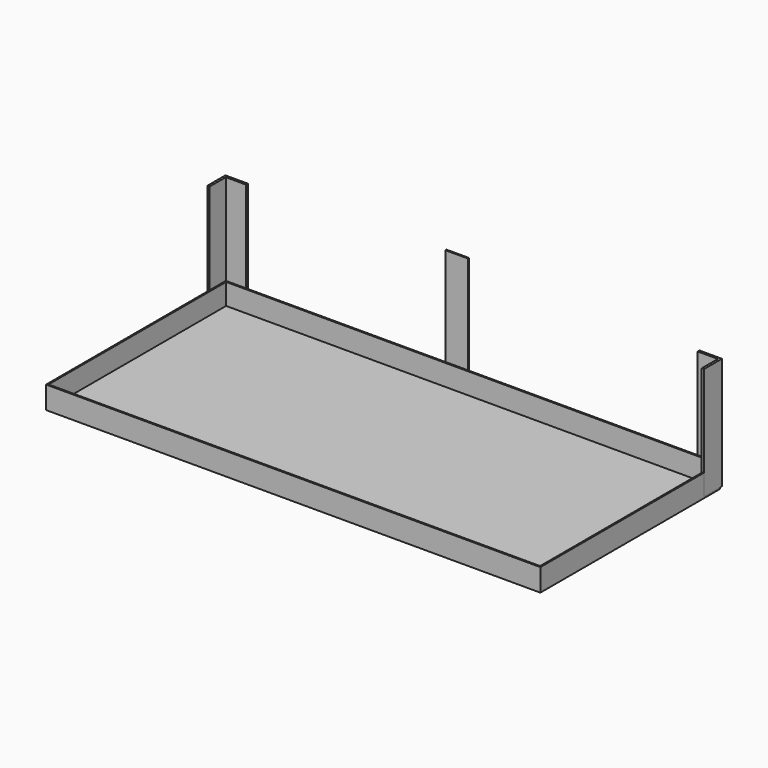
from build123d import *

# Parameters (mm, degrees)
F0_W     = 1100
F0_H     = 500
F1_DEPTH = 50
F2_T     = -3
F4_DEPTH = 250
F8_W     = 50
F8_H     = 3
F9_DEPTH = 250


with BuildPart() as f1:
    # F0 (on Top) → F1 (new body)
    with BuildSketch(Plane.XY):
        with Locations((-11.986498, 41.303312)):
            Rectangle(F0_W, F0_H)
    extrude(amount=F1_DEPTH)

    # F2
    f2_openings = [f1.faces().sort_by_distance(p)[0] for p in [
        (-11.986498, 41.303312, 50),
    ]]
    offset(amount=F2_T, openings=f2_openings)


with BuildPart() as f4:
    # F3 (on face) → F4 (new body)
    with BuildSketch(Plane.XY.offset(3)):
        Polygon((-561.986498, 291.303312), (-516.986498, 291.303312), (-516.986498, 296.303312), (-566.986498, 296.303312), (-566.986498, 246.303312), (-561.986498, 246.303312), align=None)
    extrude(amount=F4_DEPTH)


with BuildPart() as f5_1:
    # F5: copy of F4
    add(f4.part.moved(Location((1105, 0, 0))))


with BuildPart() as f6_1:
    # F6: instance of F5_1
    add(f5_1.part.mirror(Plane(origin=(538.013502, 41.303312, 25), x_dir=(0, 1, 0), z_dir=(1, 0, 0))))


with BuildPart() as f9:
    # F8 (on face) → F9 (new body)
    with BuildSketch(Plane.XY.offset(3)):
        with Locations((-67.39489, 316.55048)):
            Rectangle(F8_W, F8_H)
    extrude(amount=F9_DEPTH)


solid = Compound([f1.part, f4.part, f6_1.part, f9.part])
